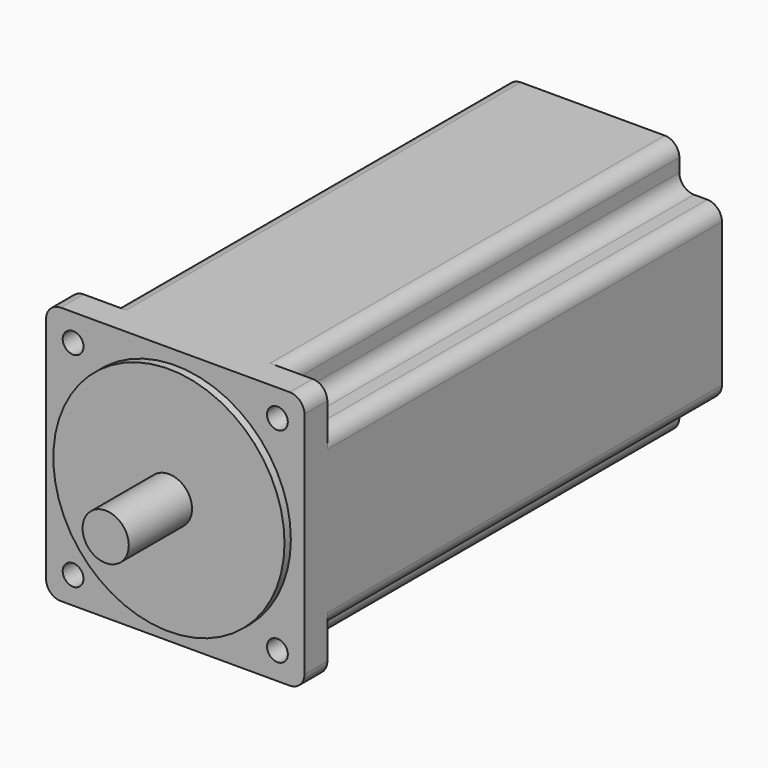
from build123d import *

# Parameters (mm, degrees)
F0_R     = 40.005
F0_R_2   = 8.001
F1_DEPTH = 170.688
F0_W     = 14.732
F0_H     = 14.732
F0_R_3   = 3.5941
F2_DEPTH = 9.906
F3_DEPTH = 12.6492
F4_DEPTH = 40.005
F5_R     = 5.08
F6_R     = 5.08


with BuildPart() as f1:
    # F0 (on Front) → F1 (new body)
    with BuildSketch(Plane.XZ):
        Polygon((-29.972, -29.972), (-29.972, -44.704), (-13.335, -44.704), (13.335, -44.704), (29.972, -44.704), (29.972, -29.972), (44.704, -29.972), (44.704, 29.972), (29.972, 29.972), (29.972, 44.704), (-29.972, 44.704), (-29.972, 29.972), (-44.704, 29.972), (-44.704, -29.972), align=None)
        Circle(F0_R, mode=Mode.SUBTRACT)
        Circle(F0_R)
        Circle(F0_R_2, mode=Mode.SUBTRACT)
        Circle(F0_R_2)
    extrude(amount=-F1_DEPTH)

    # F0 (on Front) → F2 (join)
    with BuildSketch(Plane.XZ):
        Polygon((-29.972, -29.972), (-29.972, -44.704), (-13.335, -44.704), (13.335, -44.704), (29.972, -44.704), (29.972, -29.972), (44.704, -29.972), (44.704, 29.972), (29.972, 29.972), (29.972, 44.704), (-29.972, 44.704), (-29.972, 29.972), (-44.704, 29.972), (-44.704, -29.972), align=None)
        Circle(F0_R, mode=Mode.SUBTRACT)
        with Locations((-37.338, 37.338)):
            Rectangle(F0_W, F0_H)
        with Locations((-35.355268, 35.355268)):
            Circle(F0_R_3, mode=Mode.SUBTRACT)
        with Locations((37.338, 37.338)):
            Rectangle(F0_W, F0_H)
        with Locations((35.355268, 35.355268)):
            Circle(F0_R_3, mode=Mode.SUBTRACT)
        with Locations((37.338, -37.338)):
            Rectangle(F0_W, F0_H)
        with Locations((35.355268, -35.355268)):
            Circle(F0_R_3, mode=Mode.SUBTRACT)
        with Locations((-37.338, -37.338)):
            Rectangle(F0_W, F0_H)
        with Locations((-35.355268, -35.355268)):
            Circle(F0_R_3, mode=Mode.SUBTRACT)
    extrude(amount=F2_DEPTH)

    # F0 (on Front) → F3 (join)
    with BuildSketch(Plane.XZ):
        Circle(F0_R)
        Circle(F0_R_2, mode=Mode.SUBTRACT)
    extrude(amount=F3_DEPTH)

    # F0 (on Front) → F4 (join)
    with BuildSketch(Plane.XZ):
        Circle(F0_R_2)
    extrude(amount=F4_DEPTH)

    # F5
    f5_edges = [f1.edges().sort_by_distance(p)[0] for p in [
        (44.704, 85.344, 29.972),
        (29.972, 85.344, 44.704),
        (44.704, 85.344, -29.972),
        (29.972, 85.344, -44.704),
        (-29.972, 85.344, -44.704),
        (-44.704, 85.344, -29.972),
        (-29.972, 85.344, 44.704),
        (-29.972, 85.344, 29.972),
        (-44.704, 85.344, 29.972),
        (-29.972, 85.344, -29.972),
        (29.972, 85.344, -29.972),
        (29.972, 85.344, 29.972),
    ]]
    fillet(f5_edges, radius=F5_R)

    # F6
    f6_edges = [f1.edges().sort_by_distance(p)[0] for p in [
        (-44.704, -4.953, 44.704),
        (-44.704, -4.953, -44.704),
        (44.704, -4.953, 44.704),
        (44.704, -4.953, -44.704),
    ]]
    fillet(f6_edges, radius=F6_R)


solid = f1.part
